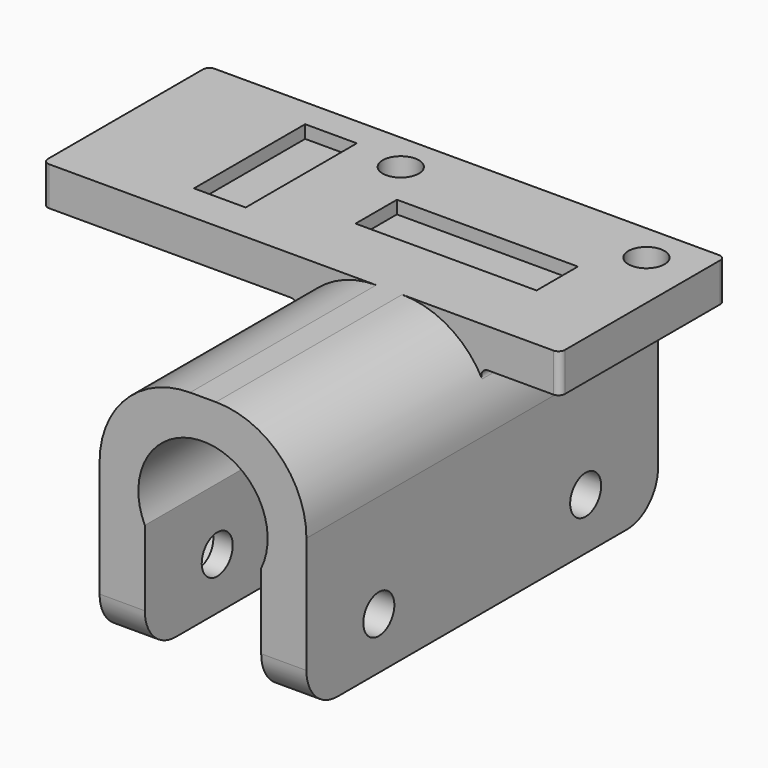
from build123d import *

# Parameters (mm, degrees)
BOX039_W                    = 10.75
BOX039_H                    = 10
BOX039_DEPTH                = 4
BOX038_W                    = 4
BOX038_H                    = 10
BOX038_DEPTH                = 14
FUSION038_ROLL_ANGLE        = 90
FUSION038_PLACEMENT_ANGLE   = 90
PRISM001_DEPTH              = 10
PRISM001_ROLL_ANGLE         = 90.000052
PRISM001_PITCH_ANGLE        = 59.999967
PRISM001_PLACEMENT_ANGLE    = 90.000052
CYLINDER040_R               = 1.5
CYLINDER040_DEPTH           = 28
CYLINDER040_ROLL_ANGLE      = 90.000052
CYLINDER040_PITCH_ANGLE     = 59.999967
CYLINDER040_PLACEMENT_ANGLE = 90.000052
CYLINDER039_R               = 1.5
CYLINDER039_DEPTH           = 28
CYLINDER039_PITCH_ANGLE     = 90
PRISM002_DEPTH              = 10
PRISM002_ROLL_ANGLE         = 90.000052
PRISM002_PITCH_ANGLE        = 59.999967
PRISM002_PLACEMENT_ANGLE    = 90.000052
PAD019_DEPTH                = 34
FILLET031_R                 = 7
FILLET032_R                 = 3
SKETCH021_W                 = 40
SKETCH021_H                 = 16
SKETCH021_R                 = 1.4
PAD018_DEPTH                = 3
FILLET033_R                 = 0.5


with BuildPart() as cube039:
    # Box039 → Box039 (new body)
    with BuildSketch(Plane(origin=(-5, -3, -10.5), x_dir=(1, 0, 0), z_dir=(0, 0, 1))):
        with Locations((5.375, 5)):
            Rectangle(BOX039_W, BOX039_H)
    extrude(amount=BOX039_DEPTH)


with BuildPart() as fusion038:
    # Box038 → Box038 (new body)
    with BuildSketch(Plane(origin=(-2.5, -3, 0), x_dir=(1, 0, 0), z_dir=(0, 0, 1))):
        with Locations((2, 5)):
            Rectangle(BOX038_W, BOX038_H)
    extrude(amount=BOX038_DEPTH)

    # Fusion038: union Cube039
    add(cube039.part)


with BuildPart() as fusion038_1:
    # Fusion038 roll: moved
    add(fusion038.part.rotate(Axis((0, 0, 0), (1, 0, 0)), FUSION038_ROLL_ANGLE))


with BuildPart() as fusion038_2:
    # Fusion038 placement: moved
    add(fusion038_1.part.moved(Location((-7, 0, 5))).rotate(Axis((-7, 0, 5), (0, 0, 1)), FUSION038_PLACEMENT_ANGLE))


with BuildPart() as prism001:
    # Prism001 → Prism001 (new body)
    with BuildSketch(Plane.XY):
        Polygon((3.2, 0), (1.6, 2.771281), (-1.6, 2.771281), (-3.2, 0), (-1.6, -2.771281), (1.6, -2.771281), align=None)
    extrude(amount=PRISM001_DEPTH)


with BuildPart() as prism001_1:
    # Prism001 roll: moved
    add(prism001.part.rotate(Axis((0, 0, 0), (1, 0, 0)), PRISM001_ROLL_ANGLE))


with BuildPart() as prism001_2:
    # Prism001 pitch: moved
    add(prism001_1.part.rotate(Axis((0, 0, 0), (0, 1, 0)), PRISM001_PITCH_ANGLE))


with BuildPart() as prism001_3:
    # Prism001 placement: moved
    add(prism001_2.part.moved(Location((-16, -19, -12))).rotate(Axis((-16, -19, -12), (0, 0, 1)), PRISM001_PLACEMENT_ANGLE))


with BuildPart() as cylinder040:
    # Cylinder040 → Cylinder040 (new body)
    with BuildSketch(Plane.XY):
        Circle(CYLINDER040_R)
    extrude(amount=CYLINDER040_DEPTH)


with BuildPart() as cylinder040_1:
    # Cylinder040 roll: moved
    add(cylinder040.part.rotate(Axis((0, 0, 0), (1, 0, 0)), CYLINDER040_ROLL_ANGLE))


with BuildPart() as cylinder040_2:
    # Cylinder040 pitch: moved
    add(cylinder040_1.part.rotate(Axis((0, 0, 0), (0, 1, 0)), CYLINDER040_PITCH_ANGLE))


with BuildPart() as cylinder040_3:
    # Cylinder040 placement: moved
    add(cylinder040_2.part.moved(Location((-16, -19, -12))).rotate(Axis((-16, -19, -12), (0, 0, 1)), CYLINDER040_PLACEMENT_ANGLE))


with BuildPart() as cylinder039:
    # Cylinder039 → Cylinder039 (new body)
    with BuildSketch(Plane.XY):
        Circle(CYLINDER039_R)
    extrude(amount=CYLINDER039_DEPTH)


with BuildPart() as cylinder039_1:
    # Cylinder039 pitch: moved
    add(cylinder039.part.rotate(Axis((0, 0, 0), (0, 1, 0)), CYLINDER039_PITCH_ANGLE))


with BuildPart() as cylinder039_2:
    # Cylinder039 placement: moved
    add(cylinder039_1.part.moved(Location((-12, 1, -12))))


with BuildPart() as fusion037:
    # Prism002 → Prism002 (new body)
    with BuildSketch(Plane.XY):
        Polygon((3.2, 0), (1.6, 2.771281), (-1.6, 2.771281), (-3.2, 0), (-1.6, -2.771281), (1.6, -2.771281), align=None)
    extrude(amount=PRISM002_DEPTH)


with BuildPart() as fusion037_1:
    # Prism002 roll: moved
    add(fusion037.part.rotate(Axis((0, 0, 0), (1, 0, 0)), PRISM002_ROLL_ANGLE))


with BuildPart() as fusion037_2:
    # Prism002 pitch: moved
    add(fusion037_1.part.rotate(Axis((0, 0, 0), (0, 1, 0)), PRISM002_PITCH_ANGLE))


with BuildPart() as fusion037_3:
    # Prism002 placement: moved
    add(fusion037_2.part.moved(Location((-16, 1, -12))).rotate(Axis((-16, 1, -12), (0, 0, 1)), PRISM002_PLACEMENT_ANGLE))

    # Fusion037: union Prism001, Cylinder040, Cylinder039
    add(prism001_3.part)
    add(cylinder040_3.part)
    add(cylinder039_2.part)


with BuildPart() as fillet032:
    # Sketch022 → Pad019 (new body)
    with BuildSketch(Plane.XZ.offset(-8)):
        with BuildLine():
            Line((-8, -16), (-8, 3))
            Line((-8, 3), (8, 3))
            Line((8, 3), (8, -16))
            Line((8, -16), (4.5, -16))
            Line((4.5, -16), (4.5, -7.179449))
            ThreePointArc((4.5, -7.179449), (0, 0), (-4.5, -7.179449))
            Line((-4.5, -7.179449), (-4.5, -16))
            Line((-4.5, -16), (-8, -16))
        make_face()
    extrude(amount=PAD019_DEPTH)

    # Fillet031
    fillet031_edges = [fillet032.edges().sort_by_distance(p)[0] for p in [
        (-8, -9, 3),
        (8, -9, 3),
    ]]
    fillet(fillet031_edges, radius=FILLET031_R)

    # Fillet032
    fillet032_edges = [fillet032.edges().sort_by_distance(p)[0] for p in [
        (-6.25, 8, -16),
        (6.25, 8, -16),
        (-6.25, -26, -16),
        (6.25, -26, -16),
    ]]
    fillet(fillet032_edges, radius=FILLET032_R)


with BuildPart() as cut042:
    # Sketch021 → Pad018 (new body)
    with BuildSketch(Plane.XY):
        with Locations((-6.8, 0)):
            Rectangle(SKETCH021_W, SKETCH021_H)
        with Locations((-9.5, 5)):
            Circle(SKETCH021_R, mode=Mode.SUBTRACT)
        with Locations((9.5, 5)):
            Circle(SKETCH021_R, mode=Mode.SUBTRACT)
    extrude(amount=PAD018_DEPTH)

    # Fusion036: union Fillet032
    add(fillet032.part)

    # Cut041: cut Fusion037
    add(fusion037_3.part, mode=Mode.SUBTRACT)

    # Fillet033
    fillet033_edges = [cut042.edges().sort_by_distance(p)[0] for p in [
        (-26.8, -8, 1.5),
        (-26.8, 8, 1.5),
        (13.2, 8, 1.5),
        (-6.744563, 0, 0),
        (13.2, -8, 1.5),
        (6.744563, 0, 0),
    ]]
    fillet(fillet033_edges, radius=FILLET033_R)

    # Cut042: cut Fusion038
    add(fusion038_2.part, mode=Mode.SUBTRACT)


solid = cut042.part
